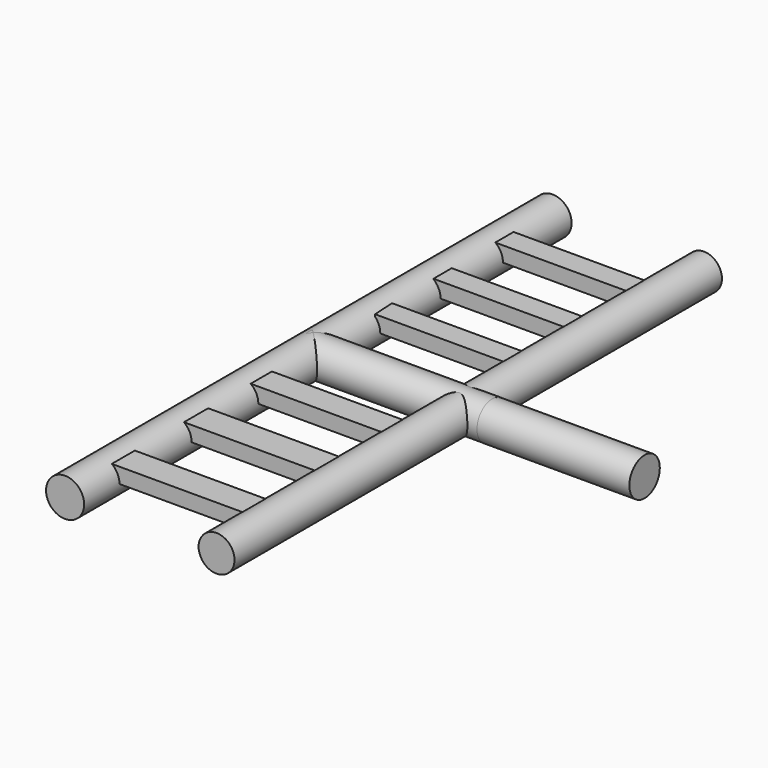
from build123d import *

# Parameters (mm, degrees)
F1_DEPTH  = 101.6
F0_R      = 3.175
F3_DEPTH  = 2.54
F5_DEPTH  = 2.54
F7_DEPTH  = 2.54
F9_DEPTH  = 2.54
F10_W     = 25.1718442887
F10_H     = 5.0343647599
F11_DEPTH = 2.54
F13_DEPTH = 2.54
F14_R     = 3.175
F15_DEPTH = 25.4
F16_R     = 3.175
F17_DEPTH = 30.48


with BuildPart() as f1:
    # F0 (on Front) → F1 (new body)
    with BuildSketch(Plane.XZ):
        with BuildLine():
            ThreePointArc((-1.6279532905, 0), (-4.6191024041, 2.9911491136), (-7.6102515177, 0))
            ThreePointArc((-7.6102515177, 0), (-4.6191024041, -2.9911491136), (-1.6279532905, 0))
        make_face()
    extrude(amount=F1_DEPTH)


with BuildPart() as f1b:
    # F0 (on Front) → F1, piece 2 (new body)
    with BuildSketch(Plane.XZ):
        with Locations((-29.8739436954, 0)):
            Circle(F0_R)
    extrude(amount=F1_DEPTH)


with BuildPart() as f3:
    # F2 (on Top) → F3 (new body)
    with BuildSketch(Plane.XY):
        Polygon((-5.8781174012, -10.4949017987), (-28.3633093358, -10.4949017987), (-28.2058767051, -14.3049017987), (-5.8781174012, -14.3049017987), align=None)
    extrude(amount=F3_DEPTH)


with BuildPart() as f5:
    # F4 (on Top) → F5 (new body)
    with BuildSketch(Plane.XY):
        Polygon((-5.9038697944, -23.4945591775), (-27.895909807, -23.4945591775), (-27.8856036874, -27.3045591775), (-5.9038697944, -27.3045591775), align=None)
    extrude(amount=F5_DEPTH)


with BuildPart() as f7:
    # F6 (on Top) → F7 (new body)
    with BuildSketch(Plane.XY):
        Polygon((-5.7091666386, -36.060981127), (-27.7912820563, -36.060981127), (-27.5685340166, -39.870981127), (-5.7091666386, -39.870981127), align=None)
    extrude(amount=F7_DEPTH)


with BuildPart() as f9:
    # F8 (on Top) → F9 (new body)
    with BuildSketch(Plane.XY):
        Polygon((-4.6675032936, -60.8628503978), (-29.6411365271, -60.8628503978), (-29.498429969, -65.2867481112), (-4.6675032936, -65.2867481112), align=None)
    extrude(amount=F9_DEPTH)


with BuildPart() as f11:
    # F10 (on Top) → F11 (new body)
    with BuildSketch(Plane.XY):
        with Locations((-16.9968819246, -76.6682736576)):
            Rectangle(F10_W, F10_H)
    extrude(amount=F11_DEPTH)


with BuildPart() as f13:
    # F12 (on Top) → F13 (new body)
    with BuildSketch(Plane.XY):
        Polygon((-4.7217323445, -89.4306227565), (-29.2020086199, -89.4306227565), (-29.4420104474, -94.2306667566), (-4.7217323445, -94.2306667566), align=None)
    extrude(amount=F13_DEPTH)


with BuildPart() as f15:
    # F14 (on Right) → F15 (new body)
    with BuildSketch(Plane.YZ):
        with Locations((-49.9144792557, 0)):
            Circle(F14_R)
    extrude(amount=F15_DEPTH)

    # F16 (on Right) → F17 (join)
    with BuildSketch(Plane.YZ):
        with Locations((-49.8905852437, 0)):
            Circle(F16_R)
    extrude(amount=-F17_DEPTH)


solid = Compound([f1.part, f1b.part, f3.part, f5.part, f7.part, f9.part, f11.part, f13.part, f15.part])
